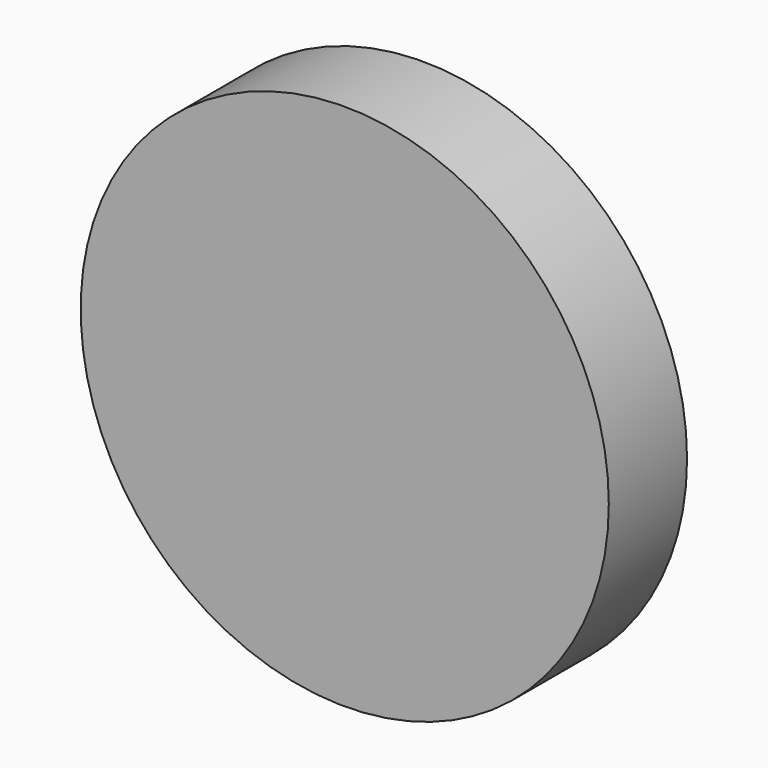
from build123d import *

# Parameters (mm, degrees)
F0_R     = 67.5
F1_DEPTH = 25
F2_R     = 15
F2_W     = 45
F2_H     = 19.910383
F3_DEPTH = 7
F4_R     = 16


with BuildPart() as f1:
    # F0 (on Front) → F1 (new body)
    with BuildSketch(Plane.XZ):
        Circle(F0_R)
    extrude(amount=F1_DEPTH)

    # F2 (on Front) → F3 (join)
    with BuildSketch(Plane.XZ):
        with Locations((-23.179246, 21.990567)):
            Circle(F2_R)
        with Locations((21.820754, 21.990567)):
            Circle(F2_R)
        with Locations((-0.679246, -31.648587)):
            Rectangle(F2_W, F2_H)
    extrude(amount=-F3_DEPTH)

    # F4
    f4_edges = [f1.edges().sort_by_distance(p)[0] for p in [
        (21.820754, 3.5, -41.603778),
        (-23.179246, 3.5, -41.603778),
    ]]
    fillet(f4_edges, radius=F4_R)


solid = f1.part
